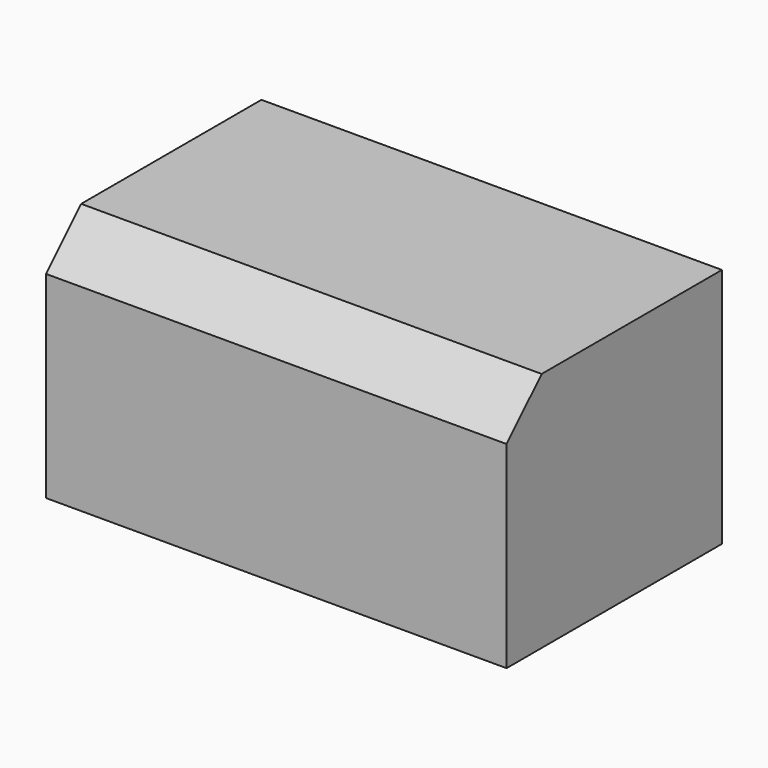
from build123d import *

# Parameters (mm, degrees)
F0_W     = 24.55
F0_H     = 22
F1_DEPTH = 42
F2_SIZE  = 4
F4_D     = 5
F4_DEPTH = 15
F4_TIP   = 1.5021515476


with BuildPart() as f1:
    # F0 (on Right) → F1 (new body)
    with BuildSketch(Plane.YZ):
        with Locations((-12.275, 11)):
            Rectangle(F0_W, F0_H)
    extrude(amount=F1_DEPTH)

    # F2
    f2_edges = [f1.edges().sort_by_distance(p)[0] for p in [
        (21, -24.55, 22),
    ]]
    chamfer(f2_edges, length=F2_SIZE)

    # F4
    with Locations(Plane(origin=(0, 0, 0), x_dir=(1, 0, 0), z_dir=(0, 0, -1))):
        with Locations((32, 12.5), (16, 12.5), (7, 12.5)):
            Hole(F4_D / 2, depth=F4_DEPTH)
            with Locations((0, 0, -(F4_DEPTH + F4_TIP / 2))):  # 118° drill point
                Cone(0, F4_D / 2, F4_TIP, mode=Mode.SUBTRACT)


solid = f1.part
